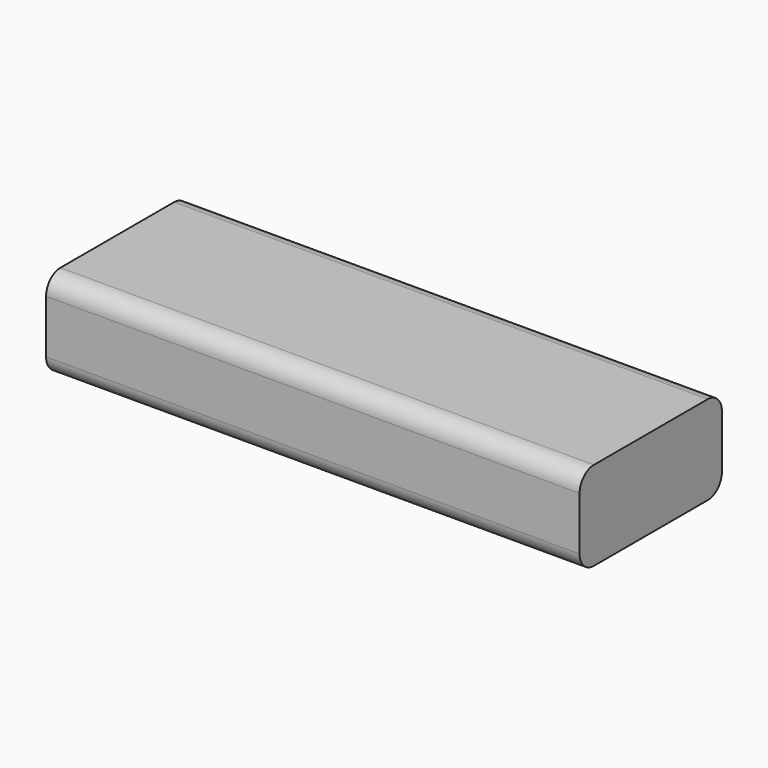
from build123d import *

# Parameters (mm, degrees)
F0_W     = 152.4
F0_H     = 25.4
F1_DEPTH = 12.7
F2_DEPTH = 25.4
F3_R     = 5.08


with BuildPart() as f1:
    # F0 (on Front) → F1 (new body, symmetric)
    with BuildSketch(Plane.XZ):
        Rectangle(F0_W, F0_H)
    extrude(amount=F1_DEPTH, both=True)

    # F2 (add): a face of the model
    f2_faces = [f1.faces().sort_by_distance(p)[0] for p in [
        (0, -12.7, 0),
    ]]
    extrude(f2_faces, amount=F2_DEPTH)

    # F3
    f3_edges = [f1.edges().sort_by_distance(p)[0] for p in [
        (0, -38.1, 12.7),
        (0, -38.1, -12.7),
        (0, 12.7, 12.7),
        (0, 12.7, -12.7),
    ]]
    fillet(f3_edges, radius=F3_R)


solid = f1.part
